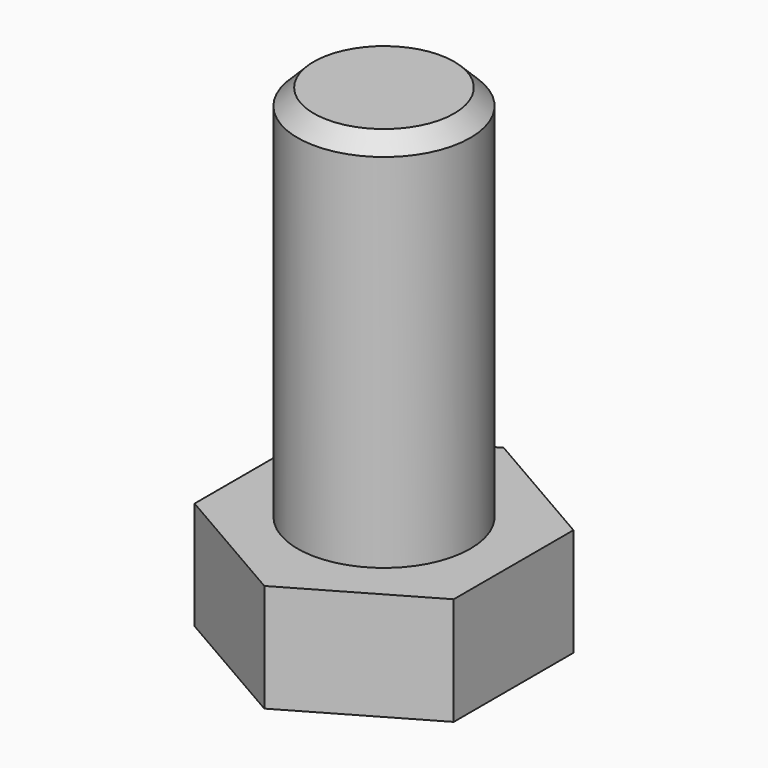
from build123d import *

# Parameters (mm, degrees)
F1_DEPTH = 10
F2_R     = 8
F3_DEPTH = 35
F4_SIZE  = 1.5


with BuildPart() as f1:
    # F0 (on Top) → F1 (new body)
    with BuildSketch(Plane.XY):
        Polygon((12, -6.928203), (12, 6.928203), (0, 13.856406), (-12, 6.928203), (-12, -6.928203), (0, -13.856406), align=None)
    extrude(amount=F1_DEPTH)

    # F2 (on face) → F3 (join)
    with BuildSketch(Plane.XY.offset(10)):
        Circle(F2_R)
    extrude(amount=F3_DEPTH)

    # F4
    f4_edges = [f1.edges().sort_by_distance(p)[0] for p in [
        (-8, 0, 45),
    ]]
    chamfer(f4_edges, length=F4_SIZE)


solid = f1.part
